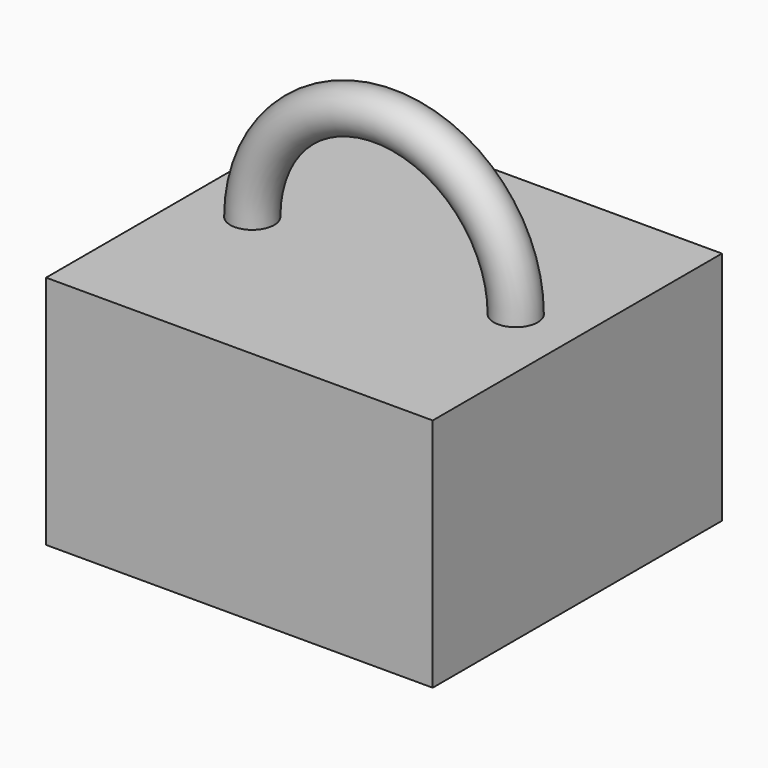
from build123d import *

# Parameters (mm, degrees)
F0_W     = 117.271182
F0_H     = 109.656172
F2_DEPTH = 71.374
F1_R     = 6.663407


with BuildPart() as f2:
    # F0 (on Top) → F2 (new body)
    with BuildSketch(Plane.XY):
        Rectangle(F0_W, F0_H)
    extrude(amount=-F2_DEPTH)

    # F1 (on Top) → F4 (revolve)
    with BuildSketch(Plane.XY):
        with Locations((39.96164, 0)):
            Circle(F1_R)
    revolve(axis=Axis((0, -0.142617, 0), (0, -1, 0)))


solid = f2.part
